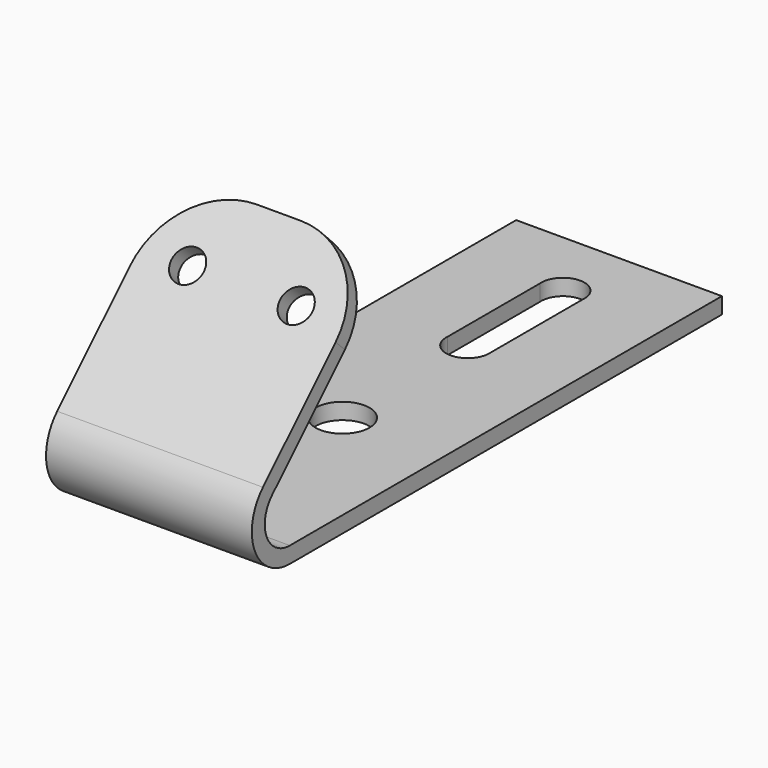
from build123d import *

# Parameters (mm, degrees)
F1_DEPTH = 241.935
F2_R     = 38.1
F3_DEPTH = 38.1000004709
F4_R     = 63.5
F5_DEPTH = 38.1000004709
F6_R     = 190.5


with BuildPart() as f1:
    # F0 (on Right) → F1 (new body, symmetric)
    with BuildSketch(Plane.YZ):
        with BuildLine():
            Line((0, 0), (1270, 0))
            Line((1270, 0), (1270, 38.1000004709))
            Line((1270, 38.1000004709), (0, 38.1000004709))
            ThreePointArc((0, 38.1000004709), (-68.0529659297, 83.5715385522), (-52.0854851692, 163.8454851692))
            Line((-52.0854851692, 163.8454851692), (296.2988816537, 512.2298519922))
            Line((296.2988816537, 512.2298519922), (269.3581129575, 539.1706206883))
            Line((269.3581129575, 539.1706206883), (-79.0262538654, 190.7862538654))
            ThreePointArc((-79.0262538654, 190.7862538654), (-103.2527765535, 68.9912995989), (0, 0))
        make_face()
    extrude(amount=F1_DEPTH, both=True)

    # F2 (on face) → F3 (cut, through all)
    with BuildSketch(Plane(origin=(0, -134.9062538654, 134.9062538654), x_dir=(1, 0, 0), z_dir=(0, -0.7071067812, 0.7071067812))):
        with Locations((-127.635, 419.2442297935)):
            Circle(F2_R)
        with Locations((127.635, 419.2442297935)):
            Circle(F2_R)
    extrude(amount=-F3_DEPTH, mode=Mode.SUBTRACT)

    # F4 (on face) → F5 (cut, through all)
    with BuildSketch(Plane.XY.offset(38.1000004709)):
        with Locations((0, 457.2)):
            Circle(F4_R)
        with BuildLine():
            Line((-50.5338093541, 1100.8937581723), (-50.5338093541, 829.5062418277))
            ThreePointArc((-50.5338093541, 829.5062418277), (0, 774.7), (50.5338093541, 829.5062418277))
            Line((50.5338093541, 829.5062418277), (50.5338093541, 1100.8937581723))
            ThreePointArc((50.5338093541, 1100.8937581723), (0, 1155.7), (-50.5338093541, 1100.8937581723))
        make_face()
    extrude(amount=-F5_DEPTH, mode=Mode.SUBTRACT)

    # F6
    f6_edges = [f1.edges().sort_by_distance(p)[0] for p in [
        (-241.935, 282.828497, 525.700236),
        (241.935, 282.828497, 525.700236),
    ]]
    fillet(f6_edges, radius=F6_R)


solid = f1.part
